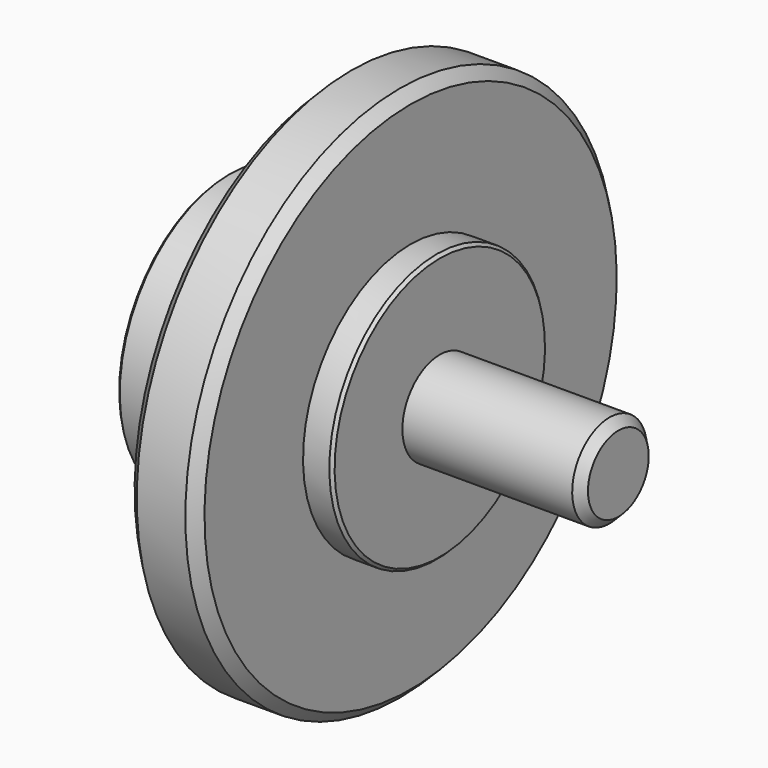
from build123d import *

# Parameters (mm, degrees)
F2_SIZE = 0.5
F3_SIZE = 1.5
F4_SIZE = 1.82


with BuildPart() as f1:
    # F0 (on Front) → F1 (revolve)
    with BuildSketch(Plane.XZ):
        Polygon((0, 8), (0, 0), (77, 0), (77, 8), (46.45, 8), (46.45, 23), (41.45, 23), (41.45, 45.9), (29.5, 45.9), (29.5, 23.5), (10, 23.5), (10, 8), align=None)
    revolve(axis=Axis((38.5, 0, 0), (-1, 0, 0)))

    # F2
    f2_edges = [f1.edges().sort_by_distance(p)[0] for p in [
        (0, 0, -8),
        (10, 0, -23.5),
        (46.45, 0, -23),
    ]]
    chamfer(f2_edges, length=F2_SIZE)

    # F3
    f3_edges = [f1.edges().sort_by_distance(p)[0] for p in [
        (77, 0, -8),
    ]]
    chamfer(f3_edges, length=F3_SIZE)

    # F4
    f4_edges = [f1.edges().sort_by_distance(p)[0] for p in [
        (41.45, 0, -45.9),
        (29.5, 0, -45.9),
    ]]
    chamfer(f4_edges, length=F4_SIZE)


solid = f1.part
